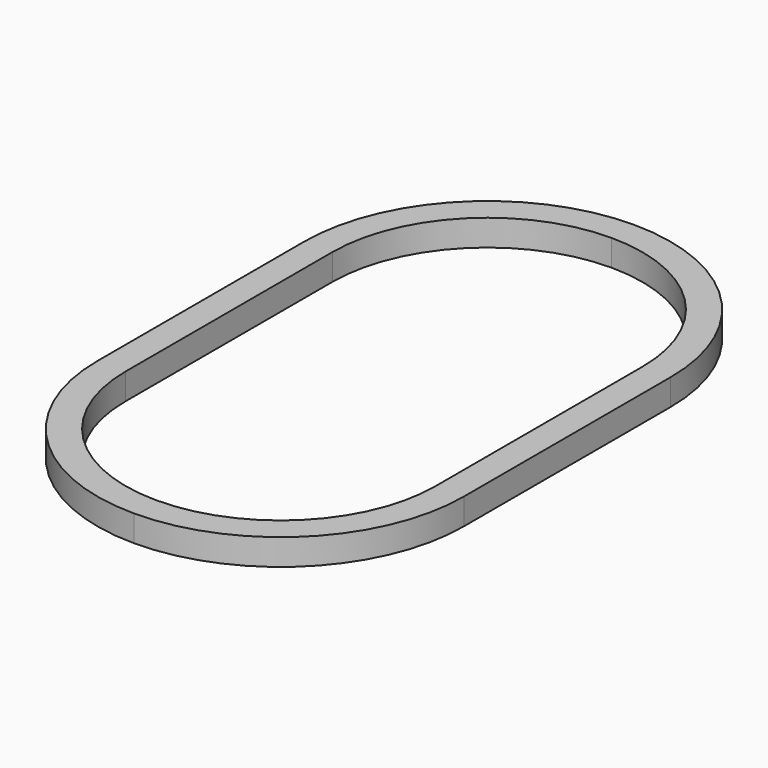
from build123d import *

# Parameters (mm, degrees)
F0_W     = 3.5
F0_H     = 32
F1_DEPTH = 3.25


with BuildPart() as f1:
    # F0 (on Top) → F1 (new body)
    with BuildSketch(Plane.XY):
        with BuildLine():
            Line((0, 38.7), (0, 35.2))
            ThreePointArc((0, 35.2), (13.5764501988, 29.5764501988), (19.2, 16))
            Line((19.2, 16), (22.7, 16))
            ThreePointArc((22.7, 16), (16.0513239329, 32.0513239329), (0, 38.7))
        make_face()
        with BuildLine():
            ThreePointArc((-19.2, 16), (-13.5764501988, 29.5764501988), (0, 35.2))
            Line((0, 35.2), (0, 38.7))
            ThreePointArc((0, 38.7), (-16.0513239329, 32.0513239329), (-22.7, 16))
            Line((-22.7, 16), (-19.2, 16))
        make_face()
        with Locations((-20.95, 0)):
            Rectangle(F0_W, F0_H)
        with BuildLine():
            Line((0, -38.7), (0, -35.2))
            ThreePointArc((0, -35.2), (-13.5764501988, -29.5764501988), (-19.2, -16))
            Line((-19.2, -16), (-22.7, -16))
            ThreePointArc((-22.7, -16), (-16.0513239329, -32.0513239329), (0, -38.7))
        make_face()
        with BuildLine():
            ThreePointArc((19.2, -16), (13.5764501988, -29.5764501988), (0, -35.2))
            Line((0, -35.2), (0, -38.7))
            ThreePointArc((0, -38.7), (16.0513239329, -32.0513239329), (22.7, -16))
            Line((22.7, -16), (19.2, -16))
        make_face()
        with Locations((20.95, 0)):
            Rectangle(F0_W, F0_H)
    extrude(amount=F1_DEPTH)


solid = f1.part
